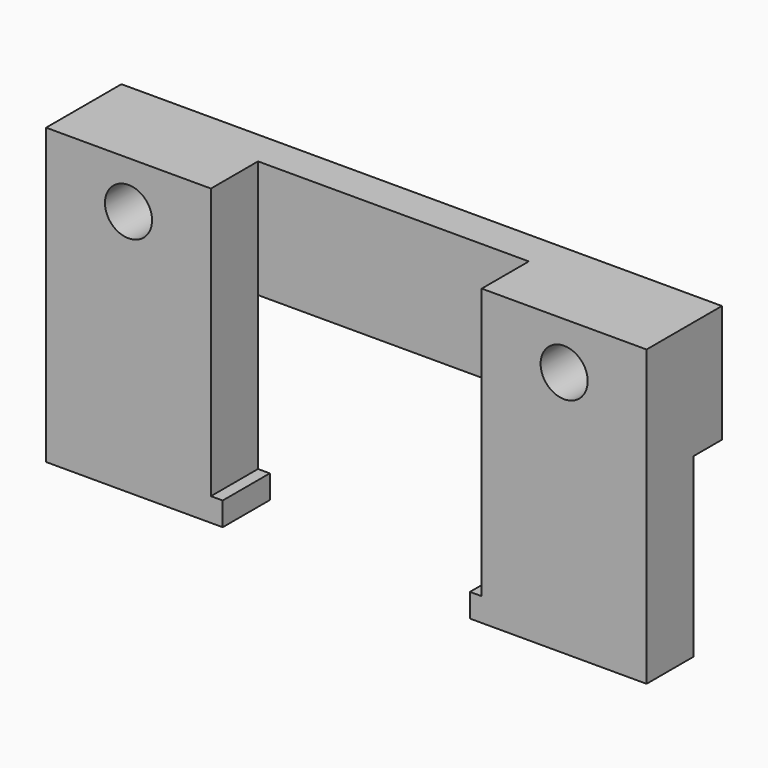
from build123d import *

# Parameters (mm, degrees)
CYLINDER295_R     = 2
CYLINDER295_DEPTH = 20
CYLINDER294_R     = 2
CYLINDER294_DEPTH = 20
BOX385_W          = 2
BOX385_H          = 5
BOX385_DEPTH      = 2
BOX025_W          = 23
BOX025_H          = 5
BOX025_DEPTH      = 25
BOX026_W          = 51
BOX026_H          = 5
BOX026_DEPTH      = 10
BOX024_W          = 51
BOX024_H          = 5
BOX024_DEPTH      = 25
BOX384_W          = 2
BOX384_H          = 5
BOX384_DEPTH      = 2


with BuildPart() as cylinder295:
    # Cylinder295 → Cylinder295 (new body)
    with BuildSketch(Plane(origin=(-16, -88, 43), x_dir=(1, 0, 0), z_dir=(0, -1, 0))):
        Circle(CYLINDER295_R)
    extrude(amount=CYLINDER295_DEPTH)


with BuildPart() as fusion233:
    # Cylinder294 → Cylinder294 (new body)
    with BuildSketch(Plane(origin=(-53, -88, 43), x_dir=(1, 0, 0), z_dir=(0, -1, 0))):
        Circle(CYLINDER294_R)
    extrude(amount=CYLINDER294_DEPTH)

    # Fusion233: union Cylinder295
    add(cylinder295.part)


with BuildPart() as box385:
    # Box385 → Box385 (new body)
    with BuildSketch(Plane(origin=(-24, -93, 26), x_dir=(1, 0, 0), z_dir=(0, 0, 1))):
        with Locations((1, 2.5)):
            Rectangle(BOX385_W, BOX385_H)
    extrude(amount=BOX385_DEPTH)


with BuildPart() as box025:
    # Box025 → Box025 (new body)
    with BuildSketch(Plane(origin=(-37, -93, 16), x_dir=(1, 0, 0), z_dir=(0, 0, 1))):
        with Locations((11.5, 2.5)):
            Rectangle(BOX025_W, BOX025_H)
    extrude(amount=BOX025_DEPTH)


with BuildPart() as box026:
    # Box026 → Box026 (new body)
    with BuildSketch(Plane(origin=(-51, -90, 31), x_dir=(1, 0, 0), z_dir=(0, 0, 1))):
        with Locations((25.5, 2.5)):
            Rectangle(BOX026_W, BOX026_H)
    extrude(amount=BOX026_DEPTH)


with BuildPart() as cut268:
    # Box024 → Box024 (new body)
    with BuildSketch(Plane(origin=(-51, -93, 16), x_dir=(1, 0, 0), z_dir=(0, 0, 1))):
        with Locations((25.5, 2.5)):
            Rectangle(BOX024_W, BOX024_H)
    extrude(amount=BOX024_DEPTH)

    # Fusion223: union Box026
    add(box026.part)

    # Cut268: cut Box025
    add(box025.part, mode=Mode.SUBTRACT)


with BuildPart() as cut268_1:
    # Cut268 placement: moved
    add(cut268.part.moved(Location((-9, 0, 10))))


with BuildPart() as cut413:
    # Box384 → Box384 (new body)
    with BuildSketch(Plane(origin=(-47, -93, 26), x_dir=(1, 0, 0), z_dir=(0, 0, 1))):
        with Locations((1, 2.5)):
            Rectangle(BOX384_W, BOX384_H)
    extrude(amount=BOX384_DEPTH)

    # Fusion224: union Box385, Cut268
    add(box385.part)
    add(cut268_1.part)


with BuildPart() as cut413_1:
    # Fusion224 placement: moved
    add(cut413.part.moved(Location((0, -5, -4))))

    # Cut413: cut Fusion233
    add(fusion233.part, mode=Mode.SUBTRACT)


solid = cut413_1.part
